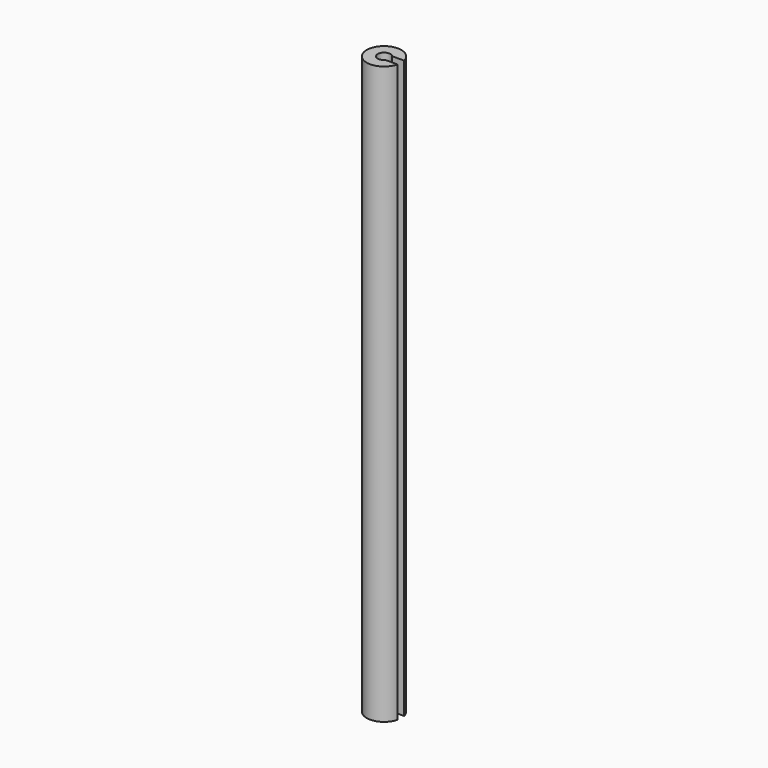
from build123d import *

# Parameters (mm, degrees)
F0_R     = 3.15
F0_R_2   = 1.15
F1_DEPTH = 105
F3_DEPTH = 105.001


with BuildPart() as f1:
    # F0 (on Top) → F1 (new body)
    with BuildSketch(Plane.XY):
        Circle(F0_R)
        Circle(F0_R_2, mode=Mode.SUBTRACT)
    extrude(amount=F1_DEPTH)

    # F2 (on face) → F3 (cut, through all)
    with BuildSketch(Plane.XY.offset(105)):
        with BuildLine():
            ThreePointArc((1.15, 0), (1.0782037741, -0.3999707758), (0.8717797887, -0.75))
            Line((0.8717797887, -0.75), (3.0594117082, -0.75))
            ThreePointArc((3.0594117082, -0.75), (3.1272709253, -0.3777255083), (3.15, 0))
            ThreePointArc((3.15, 0), (3.1272709253, 0.3777255083), (3.0594117082, 0.75))
            Line((3.0594117082, 0.75), (0.8717797887, 0.75))
            ThreePointArc((0.8717797887, 0.75), (1.0782037741, 0.3999707758), (1.15, 0))
        make_face()
    extrude(amount=-F3_DEPTH, mode=Mode.SUBTRACT)


solid = f1.part
